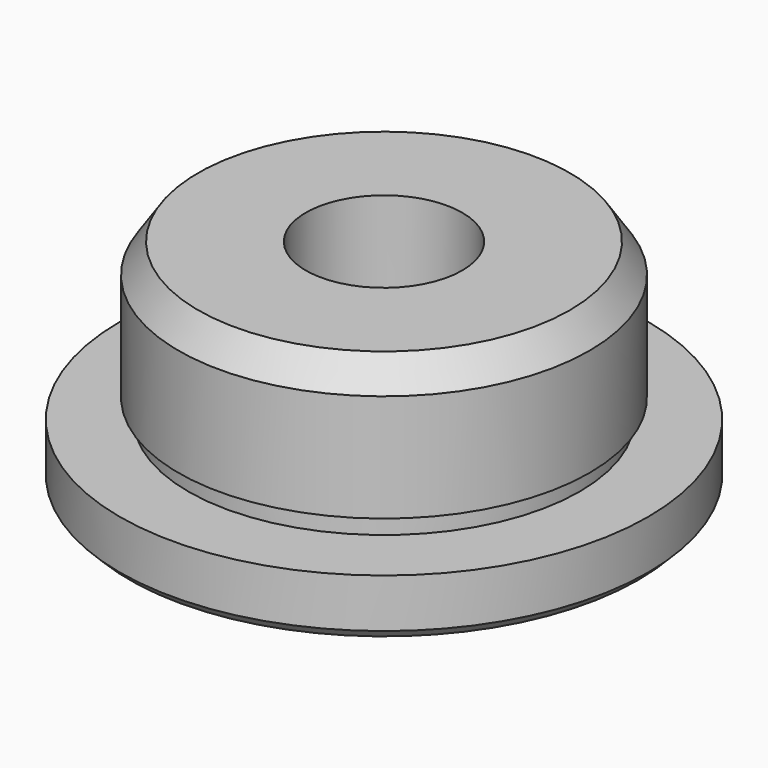
from build123d import *

# Parameters (mm, degrees)
F2_SIZE2 = 1
F2_SIZE  = 1.5
F3_SIZE  = 0.5
F4_W     = 0.5
F4_H     = 1


with BuildPart() as f1:
    # F0 (on Front) → F1 (revolve)
    with BuildSketch(Plane.XZ):
        Polygon((10.5, 11), (4, 11), (4, 0), (13.5, 0), (13.5, 3), (10.5, 3), align=None)
    revolve(axis=Axis((0, 0, 2.786824197), (0, 0, 1)))

    # F2
    f2_edges = [f1.edges().sort_by_distance(p)[0] for p in [
        (-10.5, 0, 11),
    ]]
    f2_side = f1.faces().sort_by_distance((-10.5, 0, 7))[0]
    chamfer(f2_edges, length=F2_SIZE, length2=F2_SIZE2, reference=f2_side)

    # F3
    f3_edges = [f1.edges().sort_by_distance(p)[0] for p in [
        (-13.5, 0, 0),
    ]]
    chamfer(f3_edges, length=F3_SIZE)

    # F4 (on Front) → F5 (revolve, cut)
    with BuildSketch(Plane.XZ):
        with Locations((10.25, 3.5)):
            Rectangle(F4_W, F4_H)
    revolve(axis=Axis((0, 0, 2.786824197), (0, 0, 1)), mode=Mode.SUBTRACT)


solid = f1.part
